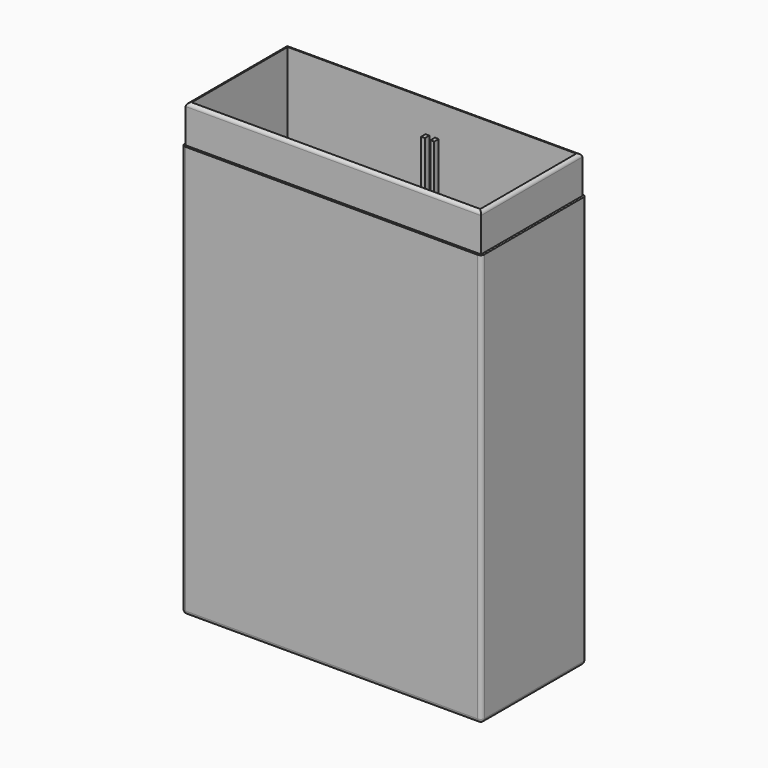
from build123d import *

# Parameters (mm, degrees)
SKETCH_W      = 80
SKETCH_H      = 35
PAD_DEPTH     = 120
THICKNESS_T   = -1.5
SKETCH001_W   = 80
SKETCH001_H   = 35
SKETCH001_W_2 = 78.8
SKETCH001_H_2 = 33.8
POCKET_DEPTH  = 10
FILLET001_R   = 1
SKETCH003_W   = 1
SKETCH003_H   = 1.5
PAD002_DEPTH  = 110
FILLET002_R   = 0.89


with BuildPart() as part:
    # Sketch → Pad (new body)
    with BuildSketch(Plane.XY):
        Rectangle(SKETCH_W, SKETCH_H)
    extrude(amount=PAD_DEPTH)

    # Thickness
    thickness_openings = [part.faces().sort_by_distance(p)[0] for p in [
        (0, 0, 120),
    ]]
    offset(amount=THICKNESS_T, openings=thickness_openings)

    # Sketch001 (on Face6 of Thickness) → Pocket (cut)
    with BuildSketch(Plane.XY.offset(120)):
        Rectangle(SKETCH001_W, SKETCH001_H)
        Rectangle(SKETCH001_W_2, SKETCH001_H_2, mode=Mode.SUBTRACT)
    extrude(amount=-POCKET_DEPTH, mode=Mode.SUBTRACT)

    # Fillet001
    fillet001_edges = [part.edges().sort_by_distance(p)[0] for p in [
        (40, -17.5, 55),
        (40, 17.5, 55),
        (-40, -17.5, 55),
        (-40, 17.5, 55),
        (-40, 0, 0),
        (0, -17.5, 0),
        (0, 17.5, 0),
        (40, 0, 0),
    ]]
    fillet(fillet001_edges, radius=FILLET001_R)

    # Sketch003 (on Face28 of Fillet001) → Pad002 (join)
    with BuildSketch(Plane.XY.offset(1.5)):
        with Locations((1.3, 15.25)):
            Rectangle(SKETCH003_W, SKETCH003_H)
        with Locations((-1.2, -15.25)):
            Rectangle(SKETCH003_W, SKETCH003_H)
        with Locations((1.3, -15.25)):
            Rectangle(SKETCH003_W, SKETCH003_H)
        with Locations((-1.2, 15.25)):
            Rectangle(SKETCH003_W, SKETCH003_H)
    extrude(amount=PAD002_DEPTH)

    # Fillet002
    fillet002_edges = [part.edges().sort_by_distance(p)[0] for p in [
        (0, -16.9, 120),
        (39.4, 0, 120),
        (0, 16.9, 120),
        (-39.4, 0, 120),
    ]]
    fillet(fillet002_edges, radius=FILLET002_R)


solid = part.part
